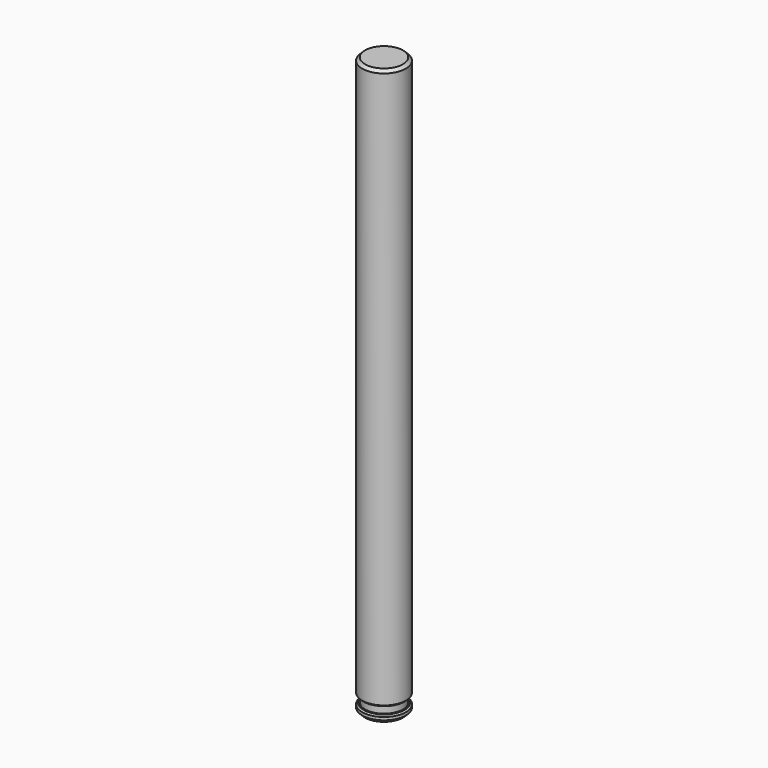
from build123d import *

# Parameters (mm, degrees)
F0_R     = 1.5
F0_R_2   = 1.3
F1_DEPTH = 38.5
F2_DEPTH = 1
F3_START = -0.5
F3_DEPTH = 0.5
F4_SIZE  = 0.2
F5_SIZE  = 0.1


with BuildPart() as f1:
    # F0 (on Top) → F1 (new body)
    with BuildSketch(Plane.XY):
        Circle(F0_R)
        Circle(F0_R_2, mode=Mode.SUBTRACT)
        Circle(F0_R_2)
    extrude(amount=F1_DEPTH)

    # F0 (on Top) → F2 (join)
    with BuildSketch(Plane.XY):
        Circle(F0_R_2)
    extrude(amount=-F2_DEPTH)

    # F0 (on Top) → F3 (join)
    with BuildSketch(Plane.XY.offset(F3_START)):
        Circle(F0_R)
        Circle(F0_R_2, mode=Mode.SUBTRACT)
    extrude(amount=-F3_DEPTH)

    # F4
    f4_edges = [f1.edges().sort_by_distance(p)[0] for p in [
        (-1.5, 0, -1),
        (-1.5, 0, 38.5),
    ]]
    chamfer(f4_edges, length=F4_SIZE)

    # F5
    f5_edges = [f1.edges().sort_by_distance(p)[0] for p in [
        (-1.5, 0, -0.5),
        (-1.5, 0, 0),
    ]]
    chamfer(f5_edges, length=F5_SIZE)


solid = f1.part
